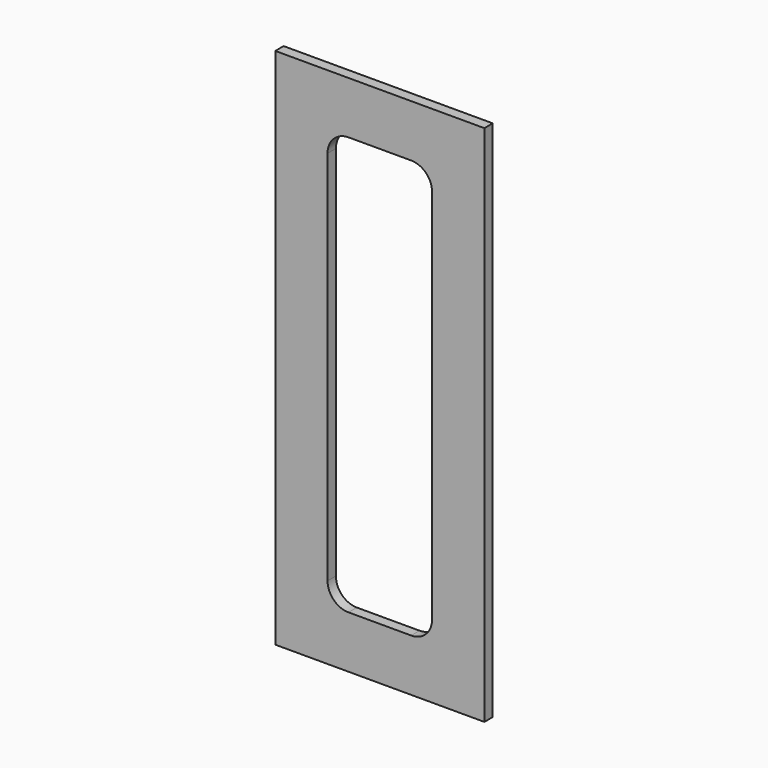
from build123d import *

# Parameters (mm, degrees)
F0_W     = 20
F0_H     = 50
F1_DEPTH = 1
F3_DEPTH = 1.001


with BuildPart() as f1:
    # F0 (on Front) → F1 (new body)
    with BuildSketch(Plane.XZ):
        with Locations((10, 25)):
            Rectangle(F0_W, F0_H)
    extrude(amount=F1_DEPTH)

    # F2 (on face) → F3 (cut, through all)
    with BuildSketch(Plane.XZ.offset(1)):
        with BuildLine():
            ThreePointArc((5, 7), (5.585786, 5.585786), (7, 5))
            Line((7, 5), (13, 5))
            ThreePointArc((13, 5), (14.414214, 5.585786), (15, 7))
            Line((15, 7), (15, 43))
            ThreePointArc((15, 43), (14.414214, 44.414214), (13, 45))
            Line((13, 45), (7, 45))
            ThreePointArc((7, 45), (5.585786, 44.414214), (5, 43))
            Line((5, 43), (5, 7))
        make_face()
    extrude(amount=-F3_DEPTH, mode=Mode.SUBTRACT)


solid = f1.part
